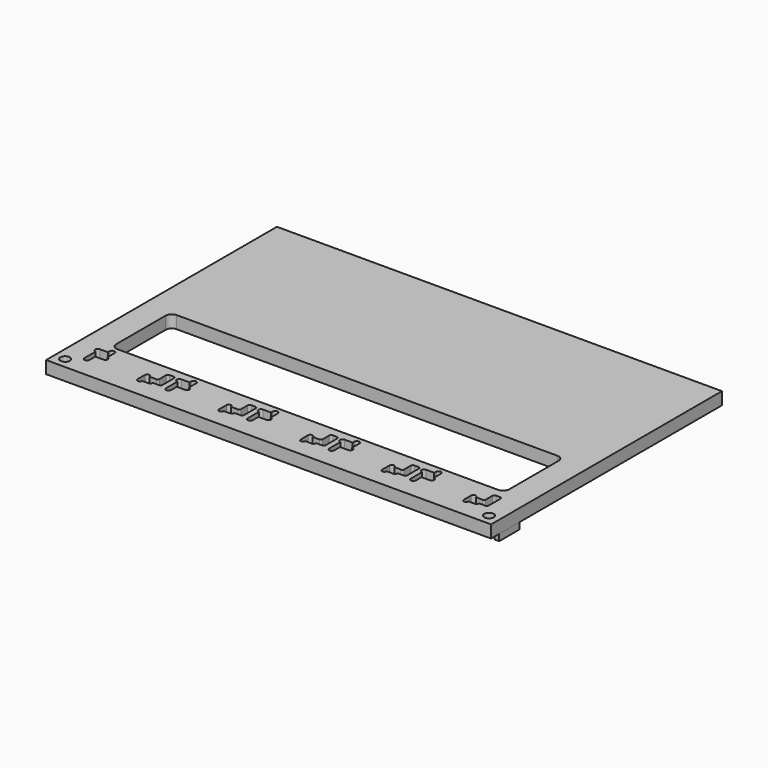
from build123d import *

# Parameters (mm, degrees)
F0_W     = 219
F0_H     = 142
F1_DEPTH = 6.15
F2_W     = 2.5
F2_H     = 1
F2_H_2   = 3.5
F2_R     = 2.35
F3_DEPTH = 6.151
F4_R     = 1.25
F5_DEPTH = 3.175
F6_W     = 4
F6_H     = 1.9
F6_W_2   = 3.18
F6_H_2   = 3.5
F7_DEPTH = 2.1
F8_W     = 3.18
F8_H     = 3.4
F9_DEPTH = 1.1


with BuildPart() as f1:
    # F0 (on Top) → F1 (new body)
    with BuildSketch(Plane.XY):
        with Locations((109.5, 71)):
            Rectangle(F0_W, F0_H)
    extrude(amount=F1_DEPTH)

    # F2 (on face) → F3 (cut, through all)
    with BuildSketch(Plane.XY.offset(6.15)):
        with BuildLine():
            ThreePointArc((208.5, 18.9), (208.207107, 19.607107), (207.5, 19.9))
            Line((207.5, 19.9), (205.5, 19.9))
            ThreePointArc((205.5, 19.9), (204.792893, 19.607107), (204.5, 18.9))
            Line((204.5, 18.9), (204.5, 14.8))
            ThreePointArc((204.5, 14.8), (204.265685, 14.234315), (203.7, 14))
            Line((203.7, 14), (200.3, 14))
            ThreePointArc((200.3, 14), (199.15, 15.15), (198, 14))
            Line((198, 14), (198, 9.5))
            ThreePointArc((198, 9.5), (199.15, 8.35), (200.3, 9.5))
            Line((200.3, 9.5), (203.5, 9.5))
            ThreePointArc((203.5, 9.5), (204.207107, 9.792893), (204.5, 10.5))
            Line((204.5, 10.5), (204.5, 10.8))
            Line((204.5, 10.8), (207.5, 10.8))
            ThreePointArc((207.5, 10.8), (208.207107, 11.092893), (208.5, 11.8))
            Line((208.5, 11.8), (208.5, 18.9))
        make_face()
        with BuildLine():
            Line((168.35, 11.8), (168.35, 18.9))
            ThreePointArc((168.35, 18.9), (168.057107, 19.607107), (167.35, 19.9))
            Line((167.35, 19.9), (165.35, 19.9))
            ThreePointArc((165.35, 19.9), (164.642893, 19.607107), (164.35, 18.9))
            Line((164.35, 18.9), (164.35, 14.8))
            ThreePointArc((164.35, 14.8), (164.115685, 14.234315), (163.55, 14))
            Line((163.55, 14), (160.15, 14))
            ThreePointArc((160.15, 14), (159, 15.15), (157.85, 14))
            Line((157.85, 14), (157.85, 9.5))
            ThreePointArc((157.85, 9.5), (159, 8.35), (160.15, 9.5))
            Line((160.15, 9.5), (163.35, 9.5))
            ThreePointArc((163.35, 9.5), (164.057107, 9.792893), (164.35, 10.5))
            Line((164.35, 10.5), (164.35, 10.8))
            Line((164.35, 10.8), (167.35, 10.8))
            ThreePointArc((167.35, 10.8), (168.057107, 11.092893), (168.35, 11.8))
        make_face()
        with BuildLine():
            Line((128.2, 11.8), (128.2, 18.9))
            ThreePointArc((128.2, 18.9), (127.907107, 19.607107), (127.2, 19.9))
            Line((127.2, 19.9), (125.2, 19.9))
            ThreePointArc((125.2, 19.9), (124.492893, 19.607107), (124.2, 18.9))
            Line((124.2, 18.9), (124.2, 14.8))
            ThreePointArc((124.2, 14.8), (123.965685, 14.234315), (123.4, 14))
            Line((123.4, 14), (120, 14))
            ThreePointArc((120, 14), (118.85, 15.15), (117.7, 14))
            Line((117.7, 14), (117.7, 9.5))
            ThreePointArc((117.7, 9.5), (118.85, 8.35), (120, 9.5))
            Line((120, 9.5), (123.2, 9.5))
            ThreePointArc((123.2, 9.5), (123.907107, 9.792893), (124.2, 10.5))
            Line((124.2, 10.5), (124.2, 10.8))
            Line((124.2, 10.8), (127.2, 10.8))
            ThreePointArc((127.2, 10.8), (127.907107, 11.092893), (128.2, 11.8))
        make_face()
        with BuildLine():
            Line((88.05, 11.8), (88.05, 18.9))
            ThreePointArc((88.05, 18.9), (87.757107, 19.607107), (87.05, 19.9))
            Line((87.05, 19.9), (85.05, 19.9))
            ThreePointArc((85.05, 19.9), (84.342893, 19.607107), (84.05, 18.9))
            Line((84.05, 18.9), (84.05, 14.8))
            ThreePointArc((84.05, 14.8), (83.815685, 14.234315), (83.25, 14))
            Line((83.25, 14), (79.85, 14))
            ThreePointArc((79.85, 14), (78.7, 15.15), (77.55, 14))
            Line((77.55, 14), (77.55, 9.5))
            ThreePointArc((77.55, 9.5), (78.7, 8.35), (79.85, 9.5))
            Line((79.85, 9.5), (83.05, 9.5))
            ThreePointArc((83.05, 9.5), (83.757107, 9.792893), (84.05, 10.5))
            Line((84.05, 10.5), (84.05, 10.8))
            Line((84.05, 10.8), (87.05, 10.8))
            ThreePointArc((87.05, 10.8), (87.757107, 11.092893), (88.05, 11.8))
        make_face()
        with BuildLine():
            Line((47.9, 11.8), (47.9, 18.9))
            ThreePointArc((47.9, 18.9), (47.607107, 19.607107), (46.9, 19.9))
            Line((46.9, 19.9), (44.9, 19.9))
            ThreePointArc((44.9, 19.9), (44.192893, 19.607107), (43.9, 18.9))
            Line((43.9, 18.9), (43.9, 14.8))
            ThreePointArc((43.9, 14.8), (43.665685, 14.234315), (43.1, 14))
            Line((43.1, 14), (39.7, 14))
            ThreePointArc((39.7, 14), (38.55, 15.15), (37.4, 14))
            Line((37.4, 14), (37.4, 9.5))
            ThreePointArc((37.4, 9.5), (38.55, 8.35), (39.7, 9.5))
            Line((39.7, 9.5), (42.9, 9.5))
            ThreePointArc((42.9, 9.5), (43.607107, 9.792893), (43.9, 10.5))
            Line((43.9, 10.5), (43.9, 10.8))
            Line((43.9, 10.8), (46.9, 10.8))
            ThreePointArc((46.9, 10.8), (47.607107, 11.092893), (47.9, 11.8))
        make_face()
        with BuildLine():
            Line((203.2, 60.55), (15.8, 60.55))
            ThreePointArc((15.8, 60.55), (13.67868, 59.67132), (12.8, 57.55))
            Line((12.8, 57.55), (12.8, 27.15))
            ThreePointArc((12.8, 27.15), (13.67868, 25.02868), (15.8, 24.15))
            Line((15.8, 24.15), (203.2, 24.15))
            ThreePointArc((203.2, 24.15), (205.32132, 25.02868), (206.2, 27.15))
            Line((206.2, 27.15), (206.2, 57.55))
            ThreePointArc((206.2, 57.55), (205.32132, 59.67132), (203.2, 60.55))
        make_face()
        Polygon((175.1, 19.9), (171.1, 19.9), (171.1, 17.4), (171.1, 14), (173.6, 14), (177.6, 14), (177.6, 16.5), (177.6, 19.9), align=None)
        with BuildLine():
            Line((171.1, 17.4), (171.1, 19.9))
            ThreePointArc((171.1, 19.9), (169.85, 18.65), (171.1, 17.4))
        make_face()
        with Locations((176.35, 20.4)):
            Rectangle(F2_W, F2_H)
        with BuildLine():
            ThreePointArc((177.6, 20.9), (176.35, 22.15), (175.1, 20.9))
            Line((175.1, 20.9), (177.6, 20.9))
        make_face()
        with Locations((172.35, 12.25)):
            Rectangle(F2_W, F2_H_2)
        with BuildLine():
            ThreePointArc((177.6, 14), (178.85, 15.25), (177.6, 16.5))
            Line((177.6, 16.5), (177.6, 14))
        make_face()
        with BuildLine():
            Line((173.6, 10.5), (171.1, 10.5))
            ThreePointArc((171.1, 10.5), (172.35, 9.25), (173.6, 10.5))
        make_face()
        with BuildLine():
            Line((133.45, 10.5), (130.95, 10.5))
            ThreePointArc((130.95, 10.5), (132.2, 9.25), (133.45, 10.5))
        make_face()
        with Locations((132.2, 12.25)):
            Rectangle(F2_W, F2_H_2)
        Polygon((130.95, 17.4), (130.95, 14), (133.45, 14), (137.45, 14), (137.45, 16.5), (137.45, 19.9), (134.95, 19.9), (130.95, 19.9), align=None)
        with BuildLine():
            ThreePointArc((130.95, 19.9), (129.7, 18.65), (130.95, 17.4))
            Line((130.95, 17.4), (130.95, 19.9))
        make_face()
        with BuildLine():
            Line((137.45, 16.5), (137.45, 14))
            ThreePointArc((137.45, 14), (138.7, 15.25), (137.45, 16.5))
        make_face()
        with Locations((136.2, 20.4)):
            Rectangle(F2_W, F2_H)
        with BuildLine():
            ThreePointArc((137.45, 20.9), (136.2, 22.15), (134.95, 20.9))
            Line((134.95, 20.9), (137.45, 20.9))
        make_face()
        with BuildLine():
            Line((93.3, 10.5), (90.8, 10.5))
            ThreePointArc((90.8, 10.5), (92.05, 9.25), (93.3, 10.5))
        make_face()
        with Locations((92.05, 12.25)):
            Rectangle(F2_W, F2_H_2)
        Polygon((90.8, 17.4), (90.8, 14), (93.3, 14), (97.3, 14), (97.3, 16.5), (97.3, 19.9), (94.8, 19.9), (90.8, 19.9), align=None)
        with BuildLine():
            ThreePointArc((90.8, 19.9), (89.55, 18.65), (90.8, 17.4))
            Line((90.8, 17.4), (90.8, 19.9))
        make_face()
        with BuildLine():
            Line((97.3, 16.5), (97.3, 14))
            ThreePointArc((97.3, 14), (98.55, 15.25), (97.3, 16.5))
        make_face()
        with Locations((96.05, 20.4)):
            Rectangle(F2_W, F2_H)
        with BuildLine():
            ThreePointArc((97.3, 20.9), (96.05, 22.15), (94.8, 20.9))
            Line((94.8, 20.9), (97.3, 20.9))
        make_face()
        with BuildLine():
            Line((53.15, 10.5), (50.65, 10.5))
            ThreePointArc((50.65, 10.5), (51.9, 9.25), (53.15, 10.5))
        make_face()
        with Locations((51.9, 12.25)):
            Rectangle(F2_W, F2_H_2)
        Polygon((50.65, 17.4), (50.65, 14), (53.15, 14), (57.15, 14), (57.15, 16.5), (57.15, 19.9), (54.65, 19.9), (50.65, 19.9), align=None)
        with BuildLine():
            ThreePointArc((50.65, 19.9), (49.4, 18.65), (50.65, 17.4))
            Line((50.65, 17.4), (50.65, 19.9))
        make_face()
        with BuildLine():
            Line((57.15, 16.5), (57.15, 14))
            ThreePointArc((57.15, 14), (58.4, 15.25), (57.15, 16.5))
        make_face()
        with Locations((55.9, 20.4)):
            Rectangle(F2_W, F2_H)
        with BuildLine():
            ThreePointArc((57.15, 20.9), (55.9, 22.15), (54.65, 20.9))
            Line((54.65, 20.9), (57.15, 20.9))
        make_face()
        with BuildLine():
            Line((13, 10.5), (10.5, 10.5))
            ThreePointArc((10.5, 10.5), (11.75, 9.25), (13, 10.5))
        make_face()
        with Locations((11.75, 12.25)):
            Rectangle(F2_W, F2_H_2)
        Polygon((10.5, 17.4), (10.5, 14), (13, 14), (17, 14), (17, 16.5), (17, 19.9), (14.5, 19.9), (10.5, 19.9), align=None)
        with BuildLine():
            ThreePointArc((10.5, 19.9), (9.25, 18.65), (10.5, 17.4))
            Line((10.5, 17.4), (10.5, 19.9))
        make_face()
        with BuildLine():
            Line((17, 16.5), (17, 14))
            ThreePointArc((17, 14), (18.25, 15.25), (17, 16.5))
        make_face()
        with Locations((15.75, 20.4)):
            Rectangle(F2_W, F2_H)
        with BuildLine():
            ThreePointArc((17, 20.9), (15.75, 22.15), (14.5, 20.9))
            Line((14.5, 20.9), (17, 20.9))
        make_face()
        with Locations((213.785, 5.215)):
            Circle(F2_R)
        with Locations((5.215, 5.215)):
            Circle(F2_R)
    extrude(amount=-F3_DEPTH, mode=Mode.SUBTRACT)


with BuildPart() as f5:
    # F4 (on face) → F5 (new body)
    with BuildSketch(Plane(origin=(0, 0, 0), x_dir=(1, 0, 0), z_dir=(0, 0, -1))):
        with BuildLine():
            Line((177.6, -17.6), (219, -17.6))
            Line((219, -17.6), (219, -5))
            Line((219, -5), (216.777286, -5))
            ThreePointArc((216.777286, -5), (213.785, -8.215), (210.792714, -5))
            Line((210.792714, -5), (8.207286, -5))
            ThreePointArc((8.207286, -5), (5.215, -8.215), (2.222714, -5))
            Line((2.222714, -5), (0, -5))
            Line((0, -5), (0, -17.6))
            Line((0, -17.6), (10.5, -17.6))
            Line((10.5, -17.6), (10.5, -13.95))
            ThreePointArc((10.5, -13.95), (12.09, -12.36), (13.68, -13.95))
            Line((13.68, -13.95), (17, -13.95))
            ThreePointArc((17, -13.95), (18.59, -15.54), (17, -17.13))
            Line((17, -17.13), (17, -17.6))
            Line((17, -17.6), (50.65, -17.6))
            Line((50.65, -17.6), (50.65, -13.95))
            ThreePointArc((50.65, -13.95), (52.24, -12.36), (53.83, -13.95))
            Line((53.83, -13.95), (57.15, -13.95))
            ThreePointArc((57.15, -13.95), (58.74, -15.54), (57.15, -17.13))
            Line((57.15, -17.13), (57.15, -17.6))
            Line((57.15, -17.6), (90.8, -17.6))
            Line((90.8, -17.6), (90.8, -13.95))
            ThreePointArc((90.8, -13.95), (92.39, -12.36), (93.98, -13.95))
            Line((93.98, -13.95), (97.3, -13.95))
            ThreePointArc((97.3, -13.95), (98.89, -15.54), (97.3, -17.13))
            Line((97.3, -17.13), (97.3, -17.6))
            Line((97.3, -17.6), (130.95, -17.6))
            Line((130.95, -17.6), (130.95, -13.95))
            ThreePointArc((130.95, -13.95), (132.54, -12.36), (134.13, -13.95))
            Line((134.13, -13.95), (137.45, -13.95))
            ThreePointArc((137.45, -13.95), (139.04, -15.54), (137.45, -17.13))
            Line((137.45, -17.13), (137.45, -17.6))
            Line((137.45, -17.6), (171.1, -17.6))
            Line((171.1, -17.6), (171.1, -13.95))
            ThreePointArc((171.1, -13.95), (172.69, -12.36), (174.28, -13.95))
            Line((174.28, -13.95), (177.6, -13.95))
            ThreePointArc((177.6, -13.95), (179.19, -15.54), (177.6, -17.13))
            Line((177.6, -17.13), (177.6, -17.6))
        make_face()
        with Locations((38.55, -14)):
            Circle(F4_R, mode=Mode.SUBTRACT)
        with Locations((78.7, -14)):
            Circle(F4_R, mode=Mode.SUBTRACT)
        with Locations((118.85, -14)):
            Circle(F4_R, mode=Mode.SUBTRACT)
        with Locations((159, -14)):
            Circle(F4_R, mode=Mode.SUBTRACT)
        with Locations((199.15, -14)):
            Circle(F4_R, mode=Mode.SUBTRACT)
        with Locations((38.55, -9.5)):
            Circle(F4_R, mode=Mode.SUBTRACT)
        with Locations((78.7, -9.5)):
            Circle(F4_R, mode=Mode.SUBTRACT)
        with Locations((118.85, -9.5)):
            Circle(F4_R, mode=Mode.SUBTRACT)
        with Locations((159, -9.5)):
            Circle(F4_R, mode=Mode.SUBTRACT)
        with Locations((199.15, -9.5)):
            Circle(F4_R, mode=Mode.SUBTRACT)
    extrude(amount=F5_DEPTH)

    # F6 (on face) → F7 (cut)
    with BuildSketch(Plane(origin=(0, 0, -3.175), x_dir=(1, 0, 0), z_dir=(0, 0, -1))):
        with Locations((206.5, -13.45)):
            Rectangle(F6_W, F6_H)
        with BuildLine():
            Line((208.5, -12.5), (208.5, -14.4))
            ThreePointArc((208.5, -14.4), (209.45, -13.45), (208.5, -12.5))
        make_face()
        with BuildLine():
            ThreePointArc((204.5, -12.5), (203.55, -13.45), (204.5, -14.4))
            Line((204.5, -14.4), (204.5, -12.5))
        make_face()
        with Locations((166.35, -13.45)):
            Rectangle(F6_W, F6_H)
        with BuildLine():
            Line((168.35, -12.5), (168.35, -14.4))
            ThreePointArc((168.35, -14.4), (169.3, -13.45), (168.35, -12.5))
        make_face()
        with BuildLine():
            ThreePointArc((164.35, -12.5), (163.4, -13.45), (164.35, -14.4))
            Line((164.35, -14.4), (164.35, -12.5))
        make_face()
        with Locations((126.2, -13.45)):
            Rectangle(F6_W, F6_H)
        with BuildLine():
            Line((128.2, -12.5), (128.2, -14.4))
            ThreePointArc((128.2, -14.4), (129.15, -13.45), (128.2, -12.5))
        make_face()
        with BuildLine():
            ThreePointArc((124.2, -12.5), (123.25, -13.45), (124.2, -14.4))
            Line((124.2, -14.4), (124.2, -12.5))
        make_face()
        with Locations((86.05, -13.45)):
            Rectangle(F6_W, F6_H)
        with BuildLine():
            Line((88.05, -12.5), (88.05, -14.4))
            ThreePointArc((88.05, -14.4), (89, -13.45), (88.05, -12.5))
        make_face()
        with BuildLine():
            ThreePointArc((84.05, -12.5), (83.1, -13.45), (84.05, -14.4))
            Line((84.05, -14.4), (84.05, -12.5))
        make_face()
        with Locations((45.9, -13.45)):
            Rectangle(F6_W, F6_H)
        with BuildLine():
            Line((47.9, -12.5), (47.9, -14.4))
            ThreePointArc((47.9, -14.4), (48.85, -13.45), (47.9, -12.5))
        make_face()
        with BuildLine():
            ThreePointArc((43.9, -12.5), (42.95, -13.45), (43.9, -14.4))
            Line((43.9, -14.4), (43.9, -12.5))
        make_face()
        with Locations((12.09, -12.2)):
            Rectangle(F6_W_2, F6_H_2)
        with BuildLine():
            ThreePointArc((13.68, -10.45), (12.09, -8.86), (10.5, -10.45))
            Line((10.5, -10.45), (13.68, -10.45))
        make_face()
        with Locations((52.24, -12.2)):
            Rectangle(F6_W_2, F6_H_2)
        with BuildLine():
            ThreePointArc((53.83, -10.45), (52.24, -8.86), (50.65, -10.45))
            Line((50.65, -10.45), (53.83, -10.45))
        make_face()
        with Locations((92.39, -12.2)):
            Rectangle(F6_W_2, F6_H_2)
        with BuildLine():
            ThreePointArc((93.98, -10.45), (92.39, -8.86), (90.8, -10.45))
            Line((90.8, -10.45), (93.98, -10.45))
        make_face()
        with Locations((132.54, -12.2)):
            Rectangle(F6_W_2, F6_H_2)
        with BuildLine():
            ThreePointArc((134.13, -10.45), (132.54, -8.86), (130.95, -10.45))
            Line((130.95, -10.45), (134.13, -10.45))
        make_face()
        with Locations((172.69, -12.2)):
            Rectangle(F6_W_2, F6_H_2)
        with BuildLine():
            ThreePointArc((174.28, -10.45), (172.69, -8.86), (171.1, -10.45))
            Line((171.1, -10.45), (174.28, -10.45))
        make_face()
    extrude(amount=-F7_DEPTH, mode=Mode.SUBTRACT)

    # F8 (on face) → F9 (cut)
    with BuildSketch(Plane(origin=(0, 0, -3.175), x_dir=(1, 0, 0), z_dir=(0, 0, -1))):
        with Locations((206.5, -16.1)):
            Rectangle(F8_W, F8_H)
        with BuildLine():
            Line((164.76, -12.68), (167.94, -12.68))
            Line((167.94, -12.68), (167.94, -10.23))
            ThreePointArc((167.94, -10.23), (167.726188, -9.713812), (167.21, -9.5))
            Line((167.21, -9.5), (165.49, -9.5))
            ThreePointArc((165.49, -9.5), (164.973812, -9.713812), (164.76, -10.23))
            Line((164.76, -10.23), (164.76, -12.68))
        make_face()
        with Locations((166.35, -16.1)):
            Rectangle(F8_W, F8_H)
        with BuildLine():
            Line((124.61, -12.68), (127.79, -12.68))
            Line((127.79, -12.68), (127.79, -10.23))
            ThreePointArc((127.79, -10.23), (127.576188, -9.713812), (127.06, -9.5))
            Line((127.06, -9.5), (125.34, -9.5))
            ThreePointArc((125.34, -9.5), (124.823812, -9.713812), (124.61, -10.23))
            Line((124.61, -10.23), (124.61, -12.68))
        make_face()
        with Locations((126.2, -16.1)):
            Rectangle(F8_W, F8_H)
        with BuildLine():
            Line((84.46, -12.68), (87.64, -12.68))
            Line((87.64, -12.68), (87.64, -10.23))
            ThreePointArc((87.64, -10.23), (87.426188, -9.713812), (86.91, -9.5))
            Line((86.91, -9.5), (85.19, -9.5))
            ThreePointArc((85.19, -9.5), (84.673812, -9.713812), (84.46, -10.23))
            Line((84.46, -10.23), (84.46, -12.68))
        make_face()
        with Locations((86.05, -16.1)):
            Rectangle(F8_W, F8_H)
        with BuildLine():
            Line((44.31, -12.68), (47.49, -12.68))
            Line((47.49, -12.68), (47.49, -10.23))
            ThreePointArc((47.49, -10.23), (47.276188, -9.713812), (46.76, -9.5))
            Line((46.76, -9.5), (45.04, -9.5))
            ThreePointArc((45.04, -9.5), (44.523812, -9.713812), (44.31, -10.23))
            Line((44.31, -10.23), (44.31, -12.68))
        make_face()
        with Locations((45.9, -16.1)):
            Rectangle(F8_W, F8_H)
        with BuildLine():
            Line((204.91, -10.23), (204.91, -12.68))
            Line((204.91, -12.68), (208.09, -12.68))
            Line((208.09, -12.68), (208.09, -10.23))
            ThreePointArc((208.09, -10.23), (207.876188, -9.713812), (207.36, -9.5))
            Line((207.36, -9.5), (205.64, -9.5))
            ThreePointArc((205.64, -9.5), (205.123812, -9.713812), (204.91, -10.23))
        make_face()
    extrude(amount=-F9_DEPTH, mode=Mode.SUBTRACT)


solid = Compound([f1.part, f5.part])
